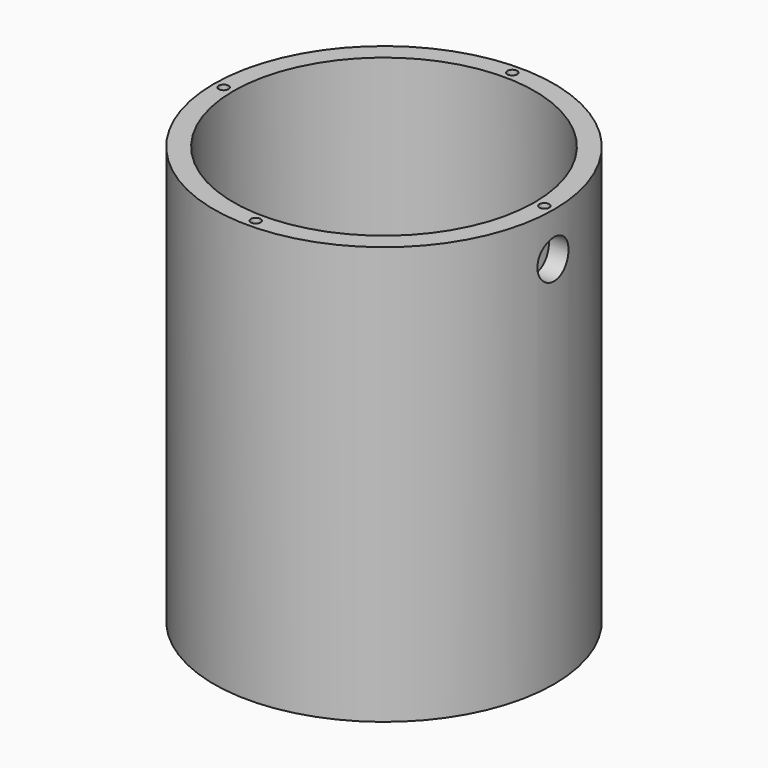
from build123d import *

# Parameters (mm, degrees)
F0_R      = 35
F1_DEPTH  = 86
F2_R      = 31
F3_DEPTH  = 82
F4_R      = 4
F5_DEPTH  = 4
F6_R      = 1
F7_DEPTH  = 4
F9_R      = 4
F10_DEPTH = 4.2601478021


with BuildPart() as f1:
    # F0 (on Top) → F1 (new body)
    with BuildSketch(Plane.XY):
        Circle(F0_R)
    extrude(amount=F1_DEPTH)

    # F2 (on face) → F3 (cut)
    with BuildSketch(Plane.XY.offset(86)):
        Circle(F2_R)
    extrude(amount=-F3_DEPTH, mode=Mode.SUBTRACT)

    # F4 (on face) → F5 (cut, through all)
    with BuildSketch(Plane(origin=(0, 0, 0), x_dir=(1, 0, 0), z_dir=(0, 0, -1))):
        Circle(F4_R)
    extrude(amount=-F5_DEPTH, mode=Mode.SUBTRACT)

    # F6 (on face) → F7 (cut)
    with BuildSketch(Plane.XY.offset(86)):
        with Locations((0, 33)):
            Circle(F6_R)
        with Locations((-33, 0)):
            Circle(F6_R)
        with Locations((0, -33)):
            Circle(F6_R)
        with Locations((33, 0)):
            Circle(F6_R)
    extrude(amount=-F7_DEPTH, mode=Mode.SUBTRACT)

    # F9 (on offset) → F10 (cut, through all)
    with BuildSketch(Plane.YZ.offset(35)):
        with Locations((0, 77)):
            Circle(F9_R)
    extrude(amount=-F10_DEPTH, mode=Mode.SUBTRACT)


solid = f1.part
